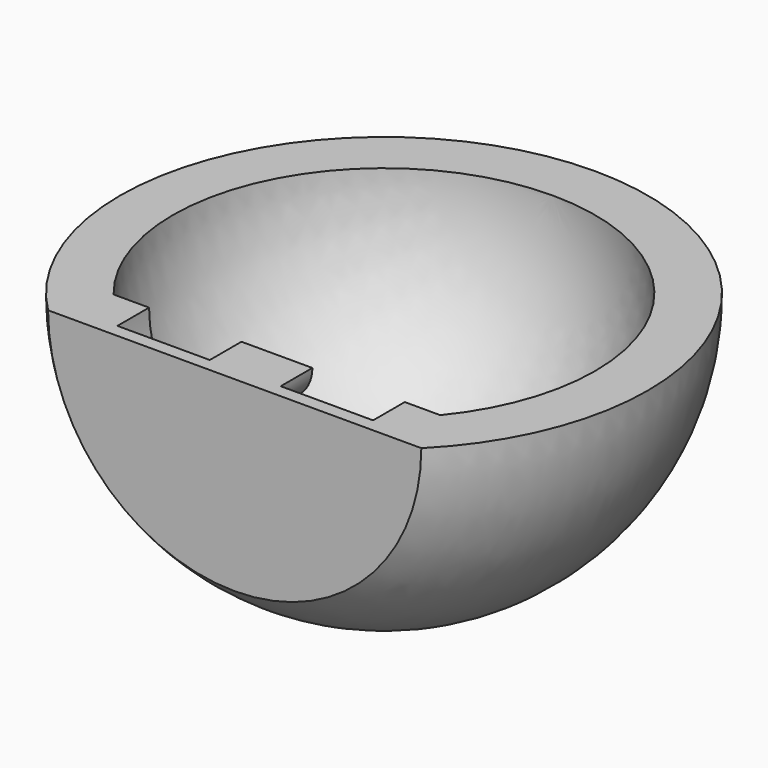
from build123d import *

# Parameters (mm, degrees)
REVOLUTION_ANGLE = 180


with BuildPart() as part:
    # Sketch → Revolution (revolve)
    with BuildSketch(Plane.XY):
        with BuildLine():
            ThreePointArc((70.710678, -70.710678), (92.387953, 38.268343), (0, 100))
            Line((0, 100), (0, 80))
            ThreePointArc((61.874285, -50.710678), (72.307864, 34.228247), (0, 80))
            Line((61.874285, -50.710678), (48.437142, -50.710678))
            Line((48.437142, -50.710678), (48.437142, -65.710678))
            Line((48.437142, -65.710678), (13.437142, -65.710678))
            Line((13.437142, -65.710678), (13.437142, -50.710678))
            Line((13.437142, -50.710678), (0, -50.710678))
            Line((0, -50.710678), (0, -70.710678))
            Line((70.710678, -70.710678), (0, -70.710678))
        make_face()
    revolve(axis=Axis((0, 0, 0), (0, 1, 0)), revolution_arc=REVOLUTION_ANGLE)


solid = part.part
